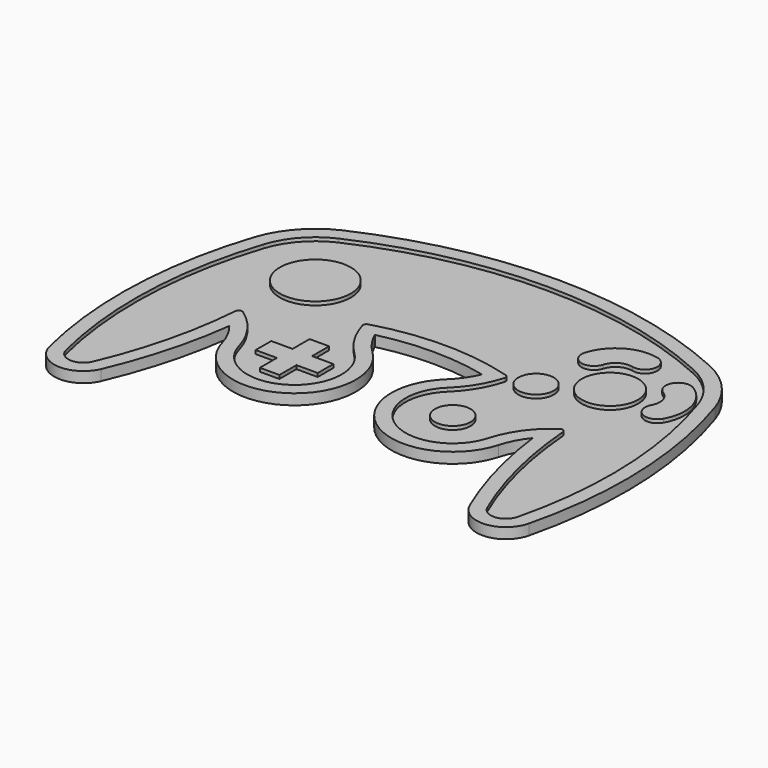
from build123d import *

# Parameters (mm, degrees)
PAD_DEPTH     = 3
POCKET_DEPTH  = 1
SKETCH002_R   = 7.95
SKETCH002_R_2 = 10
SKETCH002_R_3 = 5
PAD001_DEPTH  = 1


with BuildPart() as part:
    # Sketch → Pad (new body)
    with BuildSketch(Plane.XY):
        with BuildLine():
            ThreePointArc((51.681196, 37.715878), (0, 48.9), (-51.681196, 37.715878))
            ThreePointArc((-51.681196, 37.715878), (-59.837802, 31.729345), (-64.898683, 22.968279))
            ThreePointArc((-64.898683, 22.968279), (-71.033558, -11.241914), (-67.511606, -45.818928))
            ThreePointArc((-67.511606, -45.818928), (-60.179833, -52.071942), (-51.92059, -47.108074))
            ThreePointArc((-51.92059, -47.108074), (-46.154899, -30.597197), (-42.75, -13.44322))
            ThreePointArc((-38.952909, -20.742528), (-40.475487, -16.897296), (-42.75, -13.44322))
            ThreePointArc((-38.952909, -20.742528), (-13.396354, -30.88815), (-10.33233, -3.562651))
            ThreePointArc((-15.112075, 3.225883), (-13.051436, -0.400195), (-10.33233, -3.562651))
            ThreePointArc((15.112075, 3.225883), (0, 5), (-15.112075, 3.225883))
            ThreePointArc((10.33233, -3.562652), (13.051436, -0.400195), (15.112075, 3.225883))
            ThreePointArc((10.33233, -3.562652), (13.396355, -30.88815), (38.952909, -20.742528))
            ThreePointArc((42.75, -13.44322), (40.475487, -16.897296), (38.952909, -20.742528))
            ThreePointArc((42.75, -13.44322), (46.154899, -30.597197), (51.92059, -47.108074))
            ThreePointArc((51.92059, -47.108074), (60.179833, -52.071942), (67.511606, -45.818928))
            ThreePointArc((67.511606, -45.818928), (71.033558, -11.241914), (64.898683, 22.968279))
            ThreePointArc((64.898683, 22.968279), (59.837802, 31.729345), (51.681196, 37.715878))
        make_face()
    extrude(amount=PAD_DEPTH)

    # Sketch001 (on Face18 of Pad) → Pocket (cut)
    with BuildSketch(Plane.XY.offset(3)):
        with BuildLine():
            ThreePointArc((-50.027397, 34.07377), (-56.859073, 29.059669), (-61.097882, 21.72172))
            ThreePointArc((-61.097882, 21.72172), (-67.036441, -11.393747), (-63.627191, -44.864296))
            ThreePointArc((-63.627191, -44.864296), (-59.850217, -48.085546), (-55.595456, -45.528402))
            ThreePointArc((-55.595456, -45.528402), (-49.278768, -26.711037), (-46.123539, -7.114141))
            ThreePointArc((-44.554869, -6.371105), (-45.55462, -6.287844), (-46.123539, -7.114141))
            ThreePointArc((-35.102525, -19.658763), (-38.674758, -12.194065), (-44.554869, -6.371105))
            ThreePointArc((-35.102525, -19.658763), (-15.455001, -27.458576), (-13.099421, -6.451112))
            ThreePointArc((-20.008465, 5.014144), (-17.316595, -1.178063), (-13.099421, -6.451112))
            ThreePointArc((-19.325882, 6.248668), (-19.921945, 5.772272), (-20.008465, 5.014144))
            ThreePointArc((19.325882, 6.248667), (0, 9), (-19.325882, 6.248668))
            ThreePointArc((20.008465, 5.014144), (19.921946, 5.772272), (19.325882, 6.248667))
            ThreePointArc((13.099421, -6.451112), (17.316595, -1.178063), (20.008465, 5.014144))
            ThreePointArc((13.099421, -6.451112), (15.455001, -27.458576), (35.102525, -19.658763))
            ThreePointArc((44.554869, -6.371105), (38.674758, -12.194065), (35.102525, -19.658763))
            ThreePointArc((46.123539, -7.114141), (45.55462, -6.287844), (44.554869, -6.371105))
            ThreePointArc((46.123539, -7.114141), (49.278768, -26.711037), (55.595456, -45.528402))
            ThreePointArc((55.595456, -45.528402), (59.850217, -48.085546), (63.627191, -44.864296))
            ThreePointArc((63.627191, -44.864296), (67.036441, -11.393747), (61.097882, 21.72172))
            ThreePointArc((61.097882, 21.72172), (56.859073, 29.059669), (50.027397, 34.07377))
            ThreePointArc((50.027397, 34.07377), (0, 44.9), (-50.027397, 34.07377))
        make_face()
    extrude(amount=-POCKET_DEPTH, mode=Mode.SUBTRACT)

    # Sketch002 (on Face39 of Pocket) → Pad001 (join)
    with BuildSketch(Plane.XY.offset(2)):
        with Locations((41.5, 15.29415)):
            Circle(SKETCH002_R)
        with Locations((-41.5, 15.29415)):
            Circle(SKETCH002_R_2)
        with Locations((27.253882, 7.06915)):
            Circle(SKETCH002_R_3)
        with Locations((22.3, -16.055244)):
            Circle(SKETCH002_R_3)
        with BuildLine():
            ThreePointArc((55.269663, 27.35096), (50.459805, 26.182512), (51.628253, 21.372655))
            ThreePointArc((53.310577, 15.094137), (53.726752, 18.570298), (51.628253, 21.372655))
            ThreePointArc((53.310577, 15.094137), (54.7036, 10.344454), (59.453283, 11.737477))
            ThreePointArc((59.453283, 11.737477), (60.488233, 20.382032), (55.269663, 27.35096))
        make_face()
        with BuildLine():
            ThreePointArc((26.290165, 25.474091), (28.663681, 21.130541), (33.007231, 23.504058))
            ThreePointArc((38.636396, 26.754058), (35.170967, 26.256356), (33.007231, 23.504058))
            ThreePointArc((38.636396, 26.754058), (42.863696, 29.328924), (40.28883, 33.556224))
            ThreePointArc((40.28883, 33.556224), (31.670967, 32.318534), (26.290165, 25.474091))
        make_face()
        Polygon((-25.05, -13.305244), (-25.05, -7.305244), (-19.55, -7.305244), (-19.55, -13.305244), (-13.55, -13.305244), (-13.55, -18.805244), (-19.55, -18.805244), (-19.55, -24.805244), (-25.05, -24.805244), (-25.05, -18.805244), (-31.05, -18.805244), (-31.05, -13.305244), align=None)
    extrude(amount=PAD001_DEPTH)


solid = part.part
